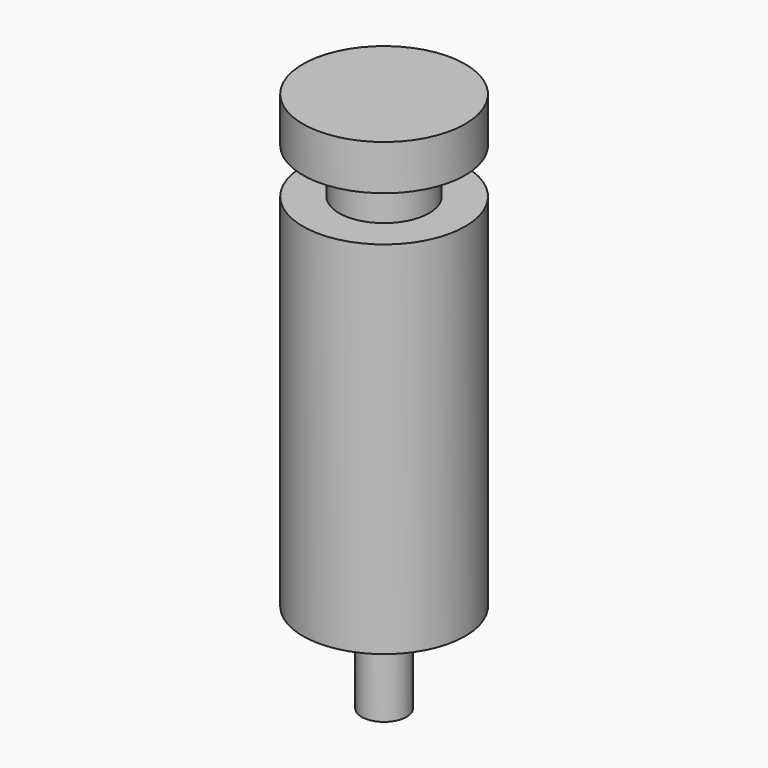
from build123d import *

# Parameters (mm, degrees)
F0_R     = 2.286
F1_DEPTH = 10.16
F2_R     = 1.27
F3_DEPTH = 1.27
F4_R     = 2.286
F5_DEPTH = 1.27
F6_R     = 0.635
F7_DEPTH = 2.54


with BuildPart() as f1:
    # F0 (on Top) → F1 (new body)
    with BuildSketch(Plane.XY):
        Circle(F0_R)
    extrude(amount=F1_DEPTH)

    # F2 (on face) → F3 (join)
    with BuildSketch(Plane.XY.offset(10.16)):
        Circle(F2_R)
    extrude(amount=F3_DEPTH)

    # F4 (on face) → F5 (join)
    with BuildSketch(Plane.XY.offset(11.43)):
        Circle(F4_R)
    extrude(amount=F5_DEPTH)

    # F6 (on face) → F7 (join)
    with BuildSketch(Plane(origin=(0, 0, 0), x_dir=(1, 0, 0), z_dir=(0, 0, -1))):
        Circle(F6_R)
    extrude(amount=F7_DEPTH)


solid = f1.part
